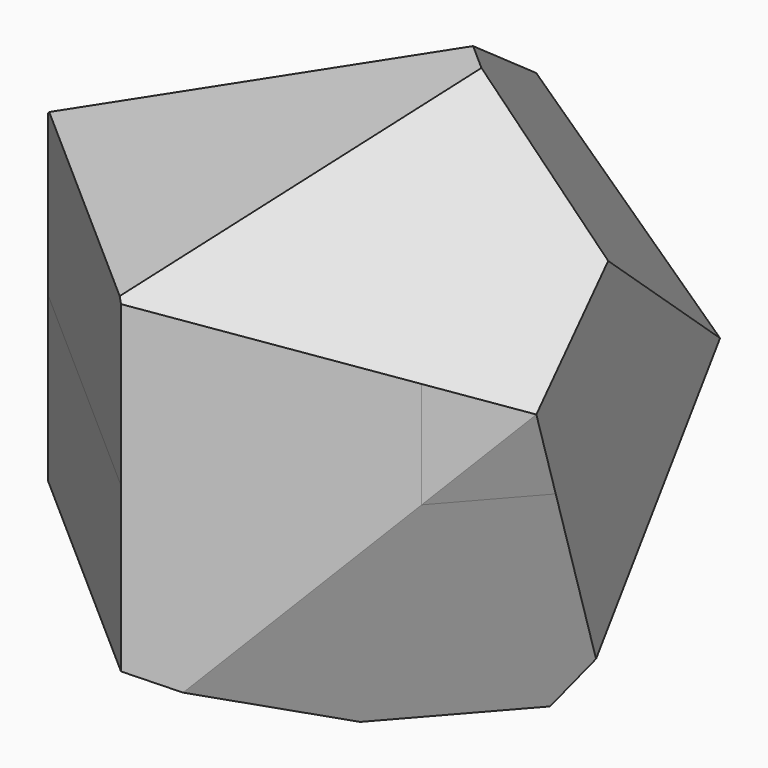
from build123d import *

# Parameters (mm, degrees)
F1_DEPTH = 25.4
F2_DEPTH = 25.4
F3_COUNT = 2
F3_ANGLE = 90
F4_COUNT = 2
F4_ANGLE = 90


with BuildPart() as f1:
    # F0 (on Top) → F1 (new body)
    with BuildSketch(Plane.XY):
        Polygon((-23.5681033644, -10.4691434878), (-8.8881384679, -1.757956216), (-21.7093285173, 9.5116151497), (-32.4273278005, -2.6820611935), align=None)
        Polygon((-8.8881384679, -1.757956216), (-3.2808908311, 1.5694212395), (-8.4611528206, 24.5838280055), (-21.7093285173, 9.5116151497), align=None)
        Polygon((-32.4273278005, -2.6820611935), (-21.7093285173, 9.5116151497), (-34.5305185668, 20.7811865153), (-41.2865522365, 5.1050211008), align=None)
        Polygon((-21.7093285173, 9.5116151497), (-8.4611528206, 24.5838280055), (-31.9499433341, 26.7689488904), (-34.5305185668, 20.7811865153), align=None)
        Polygon((-21.7093285173, 9.5116151497), (-8.4611528206, 24.5838280055), (-31.9499433341, 26.7689488904), (-34.5305185668, 20.7811865153), align=None)
    extrude(amount=-F1_DEPTH)

    # F2 (add): a face of the model
    f2_faces = [f1.faces().sort_by_distance(p)[0] for p in [
        (-21.7093285173, 9.5116151497, 0),
    ]]
    extrude(f2_faces, amount=F2_DEPTH)


with BuildPart() as f3_1:
    # F3: instance of F1
    add(f1.part.rotate(Axis((-20.8140740816, 10.5301301305, 0), (0.6601960829, 0.7510932913, 0)), 1 * F3_ANGLE / (F3_COUNT - 1)))


with BuildPart() as f4_1:
    # F4: instance of F1
    add(f1.part.rotate(Axis((-21.7093285173, 9.5116151497, 0), (0.7510932913, -0.6601960829, 0)), 1 * F4_ANGLE / (F4_COUNT - 1)))


with BuildPart() as f3_1_1:
    add(f3_1.part)

    # F5: intersect F4_1, F1
    add(f4_1.part, mode=Mode.INTERSECT)
    add(f1.part, mode=Mode.INTERSECT)


solid = f3_1_1.part
